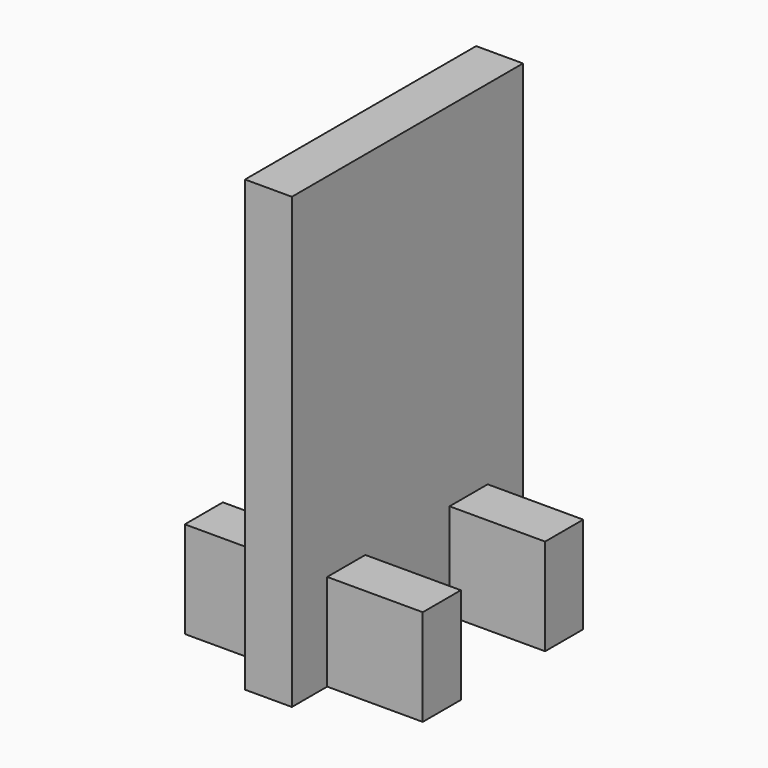
from build123d import *

# Parameters (mm, degrees)
F1_DEPTH = 4.7
F3_W     = 9.5804445446
F3_H     = 4.7753988765
F3_W_2   = 4.7
F4_DEPTH = 9.6834488213
F2_W     = 4.7
F2_H     = 4.7753988765


with BuildPart() as f1:
    # F0 (on Right) → F1 (new body)
    with BuildSketch(Plane.YZ):
        Polygon((10.0567378104, -22.5192960352), (14.4835049286, -22.5192960352), (14.4835049286, 22.5192960352), (-14.4835049286, 22.5192960352), (-14.4835049286, -22.5192960352), (-10.0567378104, -22.5192960352), (-10.0567378104, -12.8358472139), (-5.2813389339, -12.8358472139), (-5.2813389339, -22.5192960352), (5.2813389339, -22.5192960352), (5.2813389339, -12.8358472139), (10.0567378104, -12.8358472139), align=None)
    extrude(amount=F1_DEPTH)


with BuildPart() as f4:
    # F3 (on face) → F4 (new body, through all)
    with BuildSketch(Plane(origin=(0, 0, -22.5192960352), x_dir=(1, 0, 0), z_dir=(0, 0, -1))):
        with Locations((9.4902222723, -7.6690383721)):
            Rectangle(F3_W, F3_H)
        with Locations((2.35, -7.6690383721)):
            Rectangle(F3_W_2, F3_H)
        with Locations((-4.7902222723, -7.6690383721)):
            Rectangle(F3_W, F3_H)
    extrude(amount=-F4_DEPTH)


with BuildPart() as f4b:
    # F3 (on face) → F4, piece 2 (new body, through all)
    with BuildSketch(Plane(origin=(0, 0, -22.5192960352), x_dir=(1, 0, 0), z_dir=(0, 0, -1))):
        Polygon((-9.5804445446, 5.2813389339), (0, 5.2813389339), (4.7, 5.2813389339), (14.2804445446, 5.2813389339), (14.2804445446, 10.0567378104), (-9.5804445446, 10.0567378104), align=None)
    extrude(amount=-F4_DEPTH)


with BuildPart() as f4c:
    # F2 (on face) → F4, piece 3 (new body, through all)
    with BuildSketch(Plane(origin=(0, 0, -22.5192960352), x_dir=(1, 0, 0), z_dir=(0, 0, -1))):
        with Locations((2.35, 7.6690383721)):
            Rectangle(F2_W, F2_H)
    extrude(amount=-F4_DEPTH)


solid = Compound([f1.part, f4.part, f4b.part, f4c.part])
